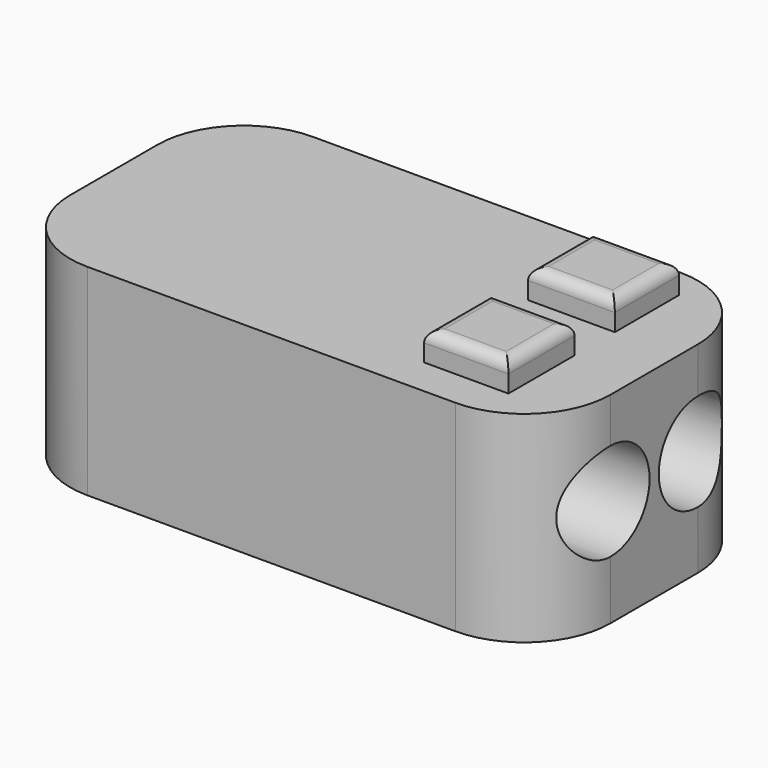
from build123d import *

# Parameters (mm, degrees)
F1_DEPTH = 88.9
F2_R     = 21.59
F3_DEPTH = 76.2
F4_W     = 38.340382
F4_H     = 35.473824
F4_W_2   = 37.265419
F4_H_2   = 36.548784
F5_DEPTH = 12.7
F6_R     = 5.08


with BuildPart() as f1:
    # F0 (on Top) → F1 (new body)
    with BuildSketch(Plane.XY):
        with BuildLine():
            ThreePointArc((-75.779863, 38.1), (-64.620631, 11.159232), (-37.679863, 0))
            Line((-37.679863, 0), (124.880137, 0))
            ThreePointArc((124.880137, 0), (151.820906, 11.159232), (162.980137, 38.1))
            Line((162.980137, 38.1), (162.980137, 86.36))
            ThreePointArc((162.980137, 86.36), (151.820906, 113.300768), (124.880137, 124.46))
            Line((124.880137, 124.46), (-37.679863, 124.46))
            ThreePointArc((-37.679863, 124.46), (-64.620631, 113.300768), (-75.779863, 86.36))
            Line((-75.779863, 86.36), (-75.779863, 38.1))
        make_face()
    extrude(amount=F1_DEPTH)

    # F2 (on face) → F3 (cut)
    with BuildSketch(Plane.YZ.offset(162.980137)):
        with Locations((38.1, 47.477592)):
            Circle(F2_R)
        with Locations((86.36, 47.182769)):
            Circle(F2_R)
    extrude(amount=-F3_DEPTH, mode=Mode.SUBTRACT)

    # F4 (on face) → F5 (join)
    with BuildSketch(Plane.XY.offset(88.9)):
        with Locations((115.770999, 93.28603)):
            Rectangle(F4_W, F4_H)
        with Locations((116.308481, 35.058801)):
            Rectangle(F4_W_2, F4_H_2)
    extrude(amount=F5_DEPTH)

    # F6
    f6_edges = [f1.edges().sort_by_distance(p)[0] for p in [
        (115.770999, 111.022942, 101.6),
        (96.600808, 93.28603, 101.6),
        (115.770999, 75.549118, 101.6),
        (134.94119, 93.28603, 101.6),
        (116.308481, 53.333193, 101.6),
        (97.675771, 35.058801, 101.6),
        (116.308481, 16.784409, 101.6),
        (134.94119, 35.058801, 101.6),
    ]]
    fillet(f6_edges, radius=F6_R)


solid = f1.part
